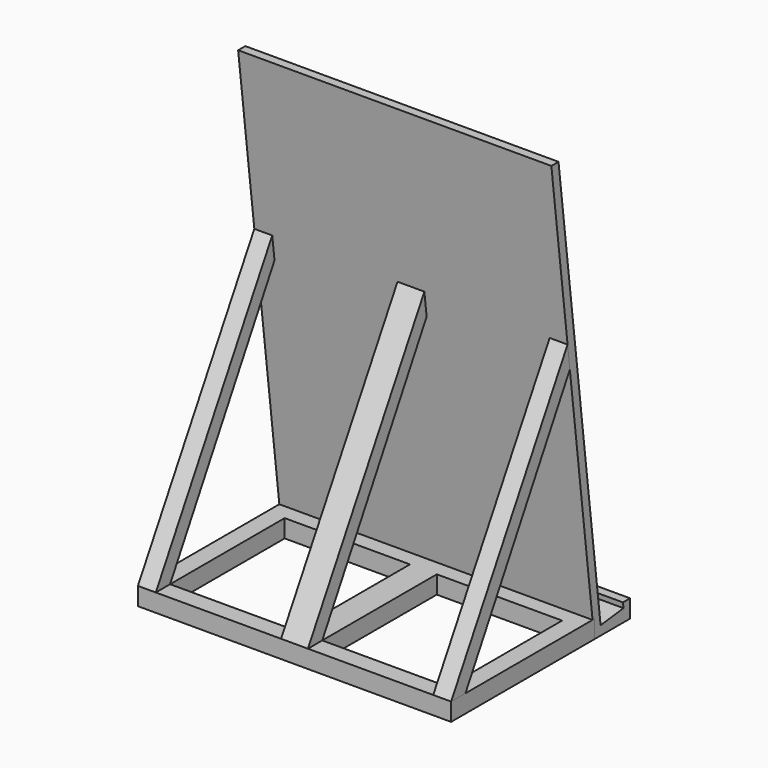
from build123d import *

# Parameters (mm, degrees)
F1_DEPTH = 175
F2_W     = 175
F2_H     = 100
F2_W_2   = 70
F2_H_2   = 80
F3_DEPTH = 10
F5_DEPTH = 10
F7_DEPTH = 10
F9_DEPTH = 15


with BuildPart() as f1:
    # F0 (on Right) → F1 (new body)
    with BuildSketch(Plane.YZ):
        Polygon((-140.0806444883, 238.0496698797), (-110.0806444883, -6.9503301203), (-85.0806444883, -6.9503301203), (-85.0806444883, 3.0496698797), (-90.0806444883, 3.0496698797), (-89.716020917, 0.0719107136), (-105.7008383154, -1.8854138658), (-135.0806444883, 238.0496698797), align=None)
    extrude(amount=-F1_DEPTH)


with BuildPart() as f3:
    # F2 (on face) → F3 (new body)
    with BuildSketch(Plane(origin=(0, 0, -6.9503301203), x_dir=(1, 0, 0), z_dir=(0, 0, -1))):
        with Locations((-87.5, 160.0806444883)):
            Rectangle(F2_W, F2_H)
        with Locations((-130, 160.0806444883)):
            Rectangle(F2_W_2, F2_H_2, mode=Mode.SUBTRACT)
        with Locations((-45, 160.0806444883)):
            Rectangle(F2_W_2, F2_H_2, mode=Mode.SUBTRACT)
    extrude(amount=-F3_DEPTH)


with BuildPart() as f5:
    # F4 (on face) → F5 (new body)
    with BuildSketch(Plane(origin=(-175, 0, 0), x_dir=(0, -1, 0), z_dir=(-1, 0, 0))):
        Polygon((210.0806444883, 3.0496698797), (128.7596900546, 145.5952086706), (127.177746364, 132.676001864), (200.0806444883, 3.0496698797), align=None)
    extrude(amount=-F5_DEPTH)


with BuildPart() as f7:
    # F6 (on face) → F7 (new body)
    with BuildSketch(Plane.YZ):
        Polygon((-200.0806444883, 3.0496698797), (-127.177746364, 132.676001864), (-128.7596900546, 145.5952086706), (-210.0806444883, 3.0496698797), align=None)
    extrude(amount=-F7_DEPTH)


with BuildPart() as f9:
    # F8 (on face) → F9 (new body, through all)
    with BuildSketch(Plane.YZ.offset(-80)):
        Polygon((-200.0806444883, 3.0496698797), (-127.177746364, 132.676001864), (-128.7596900546, 145.5952086706), (-210.0806444883, 3.0496698797), align=None)
    extrude(amount=-F9_DEPTH)


solid = Compound([f1.part, f3.part, f5.part, f7.part, f9.part])
